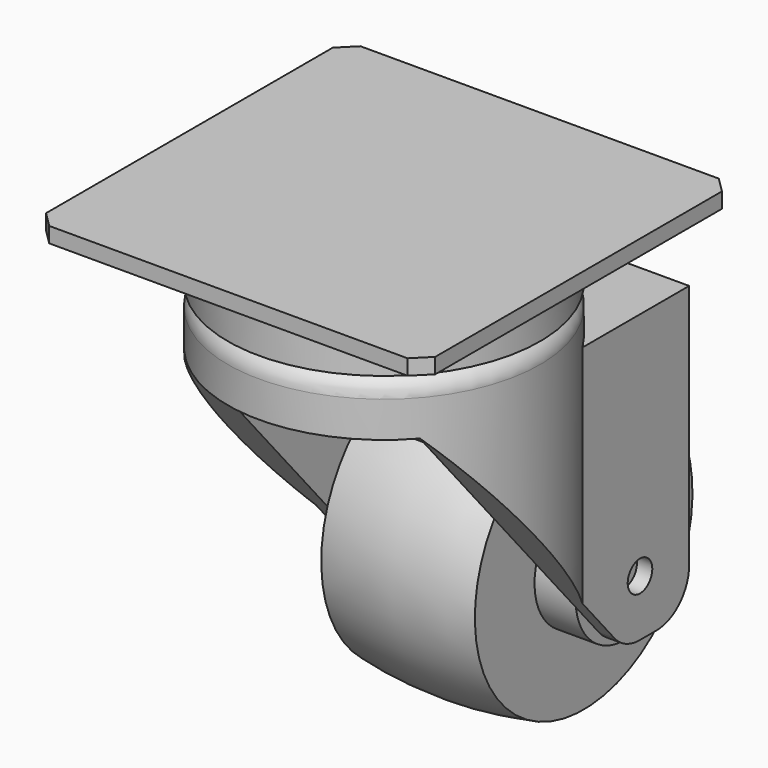
from build123d import *

# Parameters (mm, degrees)
F0_W          = 38
F0_H          = 38
F1_DEPTH      = 1.5
F2_SIZE       = 1.5
F5_R          = 1.5
F6_DEPTH      = 15.25
F6_DEPTH_BACK = 15.25
F8_DEPTH      = 30
F9_W          = 23
F9_H          = 35
F10_DEPTH     = 40.001


with BuildPart() as f1:
    # F0 (on Top) → F1 (new body)
    with BuildSketch(Plane.XY):
        Rectangle(F0_W, F0_H)
    extrude(amount=F1_DEPTH)

    # F2
    f2_edges = [f1.edges().sort_by_distance(p)[0] for p in [
        (-19, 19, 0.75),
        (-19, -19, 0.75),
        (19, -19, 0.75),
        (19, 19, 0.75),
    ]]
    chamfer(f2_edges, length=F2_SIZE)

    # F3 (on Right) → F4 (revolve)
    with BuildSketch(Plane.YZ):
        with BuildLine():
            Line((13.25, 0), (0, 0))
            Line((0, 0), (0, -11))
            Line((0, -11), (15.25, -11))
            Line((15.25, -11), (15.25, -7.5))
            ThreePointArc((15.25, -7.5), (14.6642135624, -6.0857864376), (13.25, -5.5))
            Line((13.25, -5.5), (15.25, -5.5))
            Line((15.25, -5.5), (15.25, -2))
            ThreePointArc((15.25, -2), (14.6642135624, -0.5857864376), (13.25, 0))
        make_face()
    revolve(axis=Axis((0, 0, -0.5291854686), (0, 0, -1)))

    # F5 (on Right) → F6 (join, two sides)
    with BuildSketch(Plane.YZ) as f6_sk:
        with BuildLine():
            Line((-10, -10), (-10, -11))
            Line((-10, -11), (11.898905654, -36.6001472357))
            ThreePointArc((11.898905654, -36.6001472357), (13.2652844817, -37.63322095), (14.9385165423, -38))
            Line((14.9385165423, -38), (17, -38))
            ThreePointArc((17, -38), (19.8284271247, -36.8284271247), (21, -34))
            Line((21, -34), (21, -10))
            Line((21, -10), (-10, -10))
        make_face()
        with Locations((15, -32.5)):
            Circle(F5_R, mode=Mode.SUBTRACT)
    extrude(amount=F6_DEPTH)
    extrude(f6_sk.sketch, amount=-F6_DEPTH_BACK)

    # F7 (on face) → F8 (cut)
    with BuildSketch(Plane.XY.offset(-10)):
        with BuildLine():
            Line((-22.5, 21), (-22.5, -19))
            Line((-22.5, -19), (22.5, -19))
            Line((22.5, -19), (22.5, 21))
            Line((22.5, 21), (13, 21))
            Line((13, 21), (13, 7.9726093596))
            ThreePointArc((13, 7.9726093596), (0, -15.25), (-13, 7.9726093596))
            Line((-13, 7.9726093596), (-13, 21))
            Line((-13, 21), (-22.5, 21))
        make_face()
    extrude(amount=-F8_DEPTH, mode=Mode.SUBTRACT)

    # F9 (on face) → F10 (cut, through all)
    with BuildSketch(Plane(origin=(0, 21, 0), x_dir=(-1, 0, 0), z_dir=(0, 1, 0))):
        with Locations((0, -29)):
            Rectangle(F9_W, F9_H)
    extrude(amount=-F10_DEPTH, mode=Mode.SUBTRACT)

    # F12 (on offset) → F13 (revolve)
    with BuildSketch(Plane.XZ.offset(-15)):
        with BuildLine():
            Line((11.5, -32.5), (11.5, -26.5))
            Line((11.5, -26.5), (7.5, -26.5))
            Line((7.5, -26.5), (7.5, -19.2178355349))
            ThreePointArc((7.5, -19.2178355349), (0.0001190172, -18.5000005463), (-7.5, -19.215344209))
            Line((-7.5, -19.215344209), (-7.5, -26.5))
            Line((-7.5, -26.5), (-11.5, -26.5))
            Line((-11.5, -26.5), (-11.5129183978, -32.5))
            Line((-11.5129183978, -32.5), (11.5, -32.5))
        make_face()
    revolve(axis=Axis((0.3813263029, 15, -32.5), (-1, 0, 0)))


solid = f1.part
